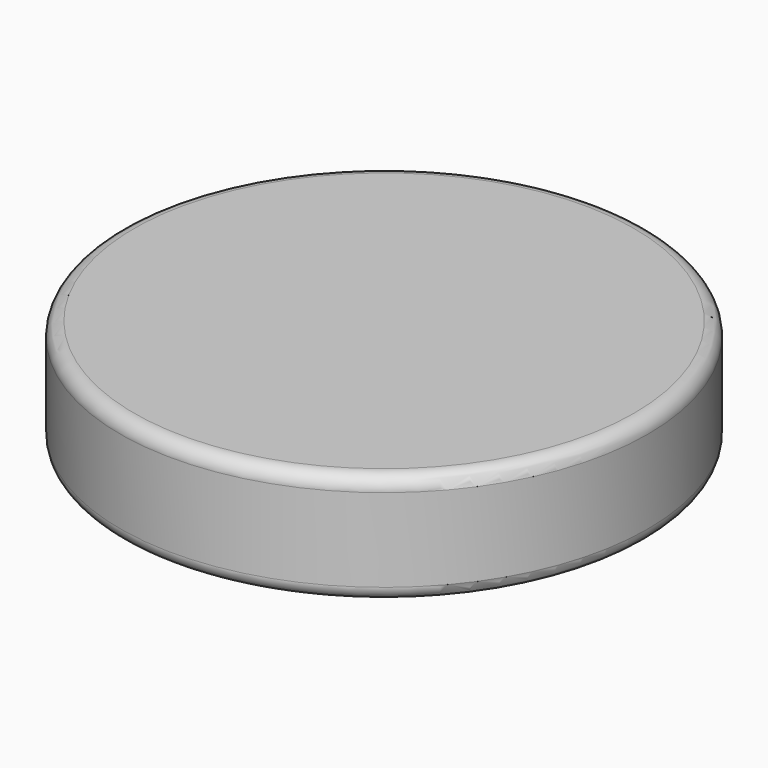
from build123d import *

# Parameters (mm, degrees)
CYLINDER005_R     = 9.5
CYLINDER005_DEPTH = 2
FILLET005_R       = 0.5
CYLINDER004_R     = 9.5
CYLINDER004_DEPTH = 2
FILLET004_R       = 0.5


with BuildPart() as fillet005:
    # Cylinder005 → Cylinder005 (new body)
    with BuildSketch(Plane.XY.offset(12)):
        Circle(CYLINDER005_R)
    extrude(amount=CYLINDER005_DEPTH)

    # Fillet005
    fillet005_edges = [fillet005.edges().sort_by_distance(p)[0] for p in [
        (-9.5, 0, 14),
    ]]
    fillet(fillet005_edges, radius=FILLET005_R)


with BuildPart() as disc002:
    # Cylinder004 → Cylinder004 (new body)
    with BuildSketch(Plane.XY.offset(11)):
        Circle(CYLINDER004_R)
    extrude(amount=CYLINDER004_DEPTH)

    # Fillet004
    fillet004_edges = [disc002.edges().sort_by_distance(p)[0] for p in [
        (-9.5, 0, 11),
    ]]
    fillet(fillet004_edges, radius=FILLET004_R)


with BuildPart() as disc002_1:
    # Fillet004 placement: moved
    add(disc002.part.moved(Location((0, 0, -1))))

    # Fusion004: union Fillet005
    add(fillet005.part)


with BuildPart() as disc002_2:
    # Fusion004 placement: moved
    add(disc002_1.part.moved(Location((-17, 17, 0))))


solid = disc002_2.part
